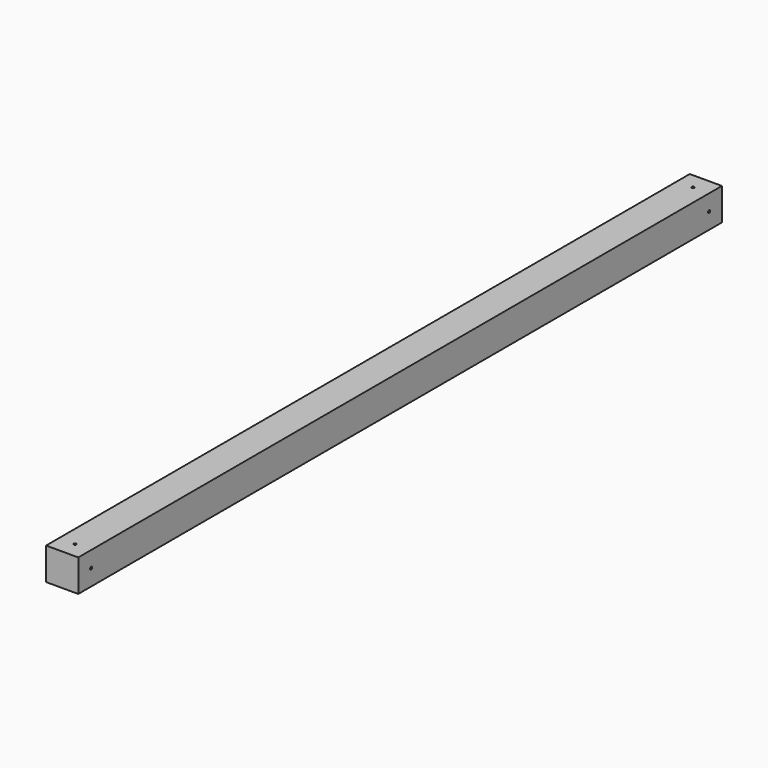
from build123d import *

# Parameters (mm, degrees)
F3_W     = 60
F3_H     = 60
F4_DEPTH = 1500
F7_D     = 5
F7_DEPTH = 12
F7_TIP   = 1.5021515476
F8_D     = 5
F8_DEPTH = 12
F8_TIP   = 1.5021515476


with BuildPart() as f4:
    # F3 (on Front) → F4 (new body)
    with BuildSketch(Plane.XZ):
        with Locations((30, 30)):
            Rectangle(F3_W, F3_H)
    extrude(amount=F4_DEPTH)

    # F7
    with Locations(Plane.XY.offset(60)):
        with Locations((30, -1470), (30, -30)):
            Hole(F7_D / 2, depth=F7_DEPTH)
            with Locations((0, 0, -(F7_DEPTH + F7_TIP / 2))):  # 118° drill point
                Cone(0, F7_D / 2, F7_TIP, mode=Mode.SUBTRACT)

    # F8
    with Locations(Plane.YZ.offset(60)):
        with Locations((-30, 30), (-1470, 30)):
            Hole(F8_D / 2, depth=F8_DEPTH)
            with Locations((0, 0, -(F8_DEPTH + F8_TIP / 2))):  # 118° drill point
                Cone(0, F8_D / 2, F8_TIP, mode=Mode.SUBTRACT)


solid = f4.part
